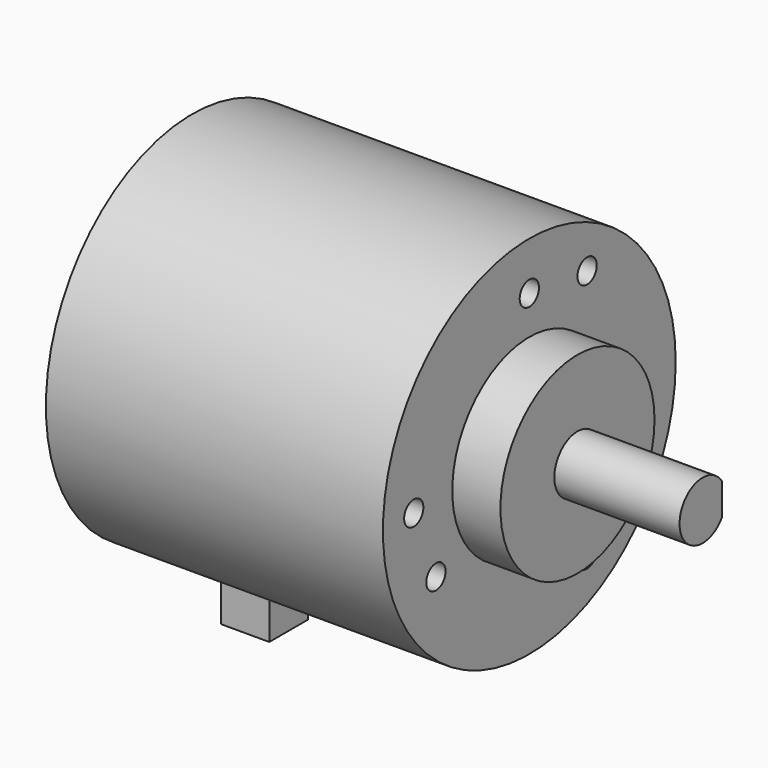
from build123d import *

# Parameters (mm, degrees)
SKETCH001_R  = 1.25
HOLE_DEPTH   = 7.248924
HOLE_TIPS_R  = 1.25
SKETCH002_W  = 20
SKETCH002_H  = 20
POCKET_DEPTH = 10
SKETCH003_W  = 5
SKETCH003_H  = 5
PAD_DEPTH    = 25


with BuildPart() as part:
    # Sketch → Revolution (revolve)
    with BuildSketch(Plane.XY):
        Polygon((0, 0), (0, 19), (35, 19), (35, 10), (40, 10), (40, 3), (53, 3), (53, 0), align=None)
    revolve(axis=Axis((0, 0, 0), (1, 0, 0)))

    # Sketch001 (on Face3 of Revolution) → Hole (cut)
    with BuildSketch(Plane.YZ.offset(35)):
        with Locations((-15, 0)):
            Circle(SKETCH001_R)
        with Locations((-12.124356, -7)):
            Circle(SKETCH001_R)
        with Locations((7.5, -12.990381)):
            Circle(SKETCH001_R)
        with Locations((12.124356, -7)):
            Circle(SKETCH001_R)
        with Locations((7.5, 12.990381)):
            Circle(SKETCH001_R)
        with Locations((0, 14)):
            Circle(SKETCH001_R)
    extrude(amount=-HOLE_DEPTH, mode=Mode.SUBTRACT)

    # Hole tips → Hole tip 1 section 0
    with BuildSketch(Plane.YZ.offset(27.751076), mode=Mode.PRIVATE) as hole_tip_1_s0:
        with Locations((-15, 0)):
            Circle(HOLE_TIPS_R)
    loft([hole_tip_1_s0.sketch, Vertex(27, -15, 0)], mode=Mode.SUBTRACT)

    # Hole tips → Hole tip 2 section 0
    with BuildSketch(Plane.YZ.offset(27.751076), mode=Mode.PRIVATE) as hole_tip_2_s0:
        with Locations((-12.124356, -7)):
            Circle(HOLE_TIPS_R)
    loft([hole_tip_2_s0.sketch, Vertex(27, -12.124356, -7)], mode=Mode.SUBTRACT)

    # Hole tips → Hole tip 3 section 0
    with BuildSketch(Plane.YZ.offset(27.751076), mode=Mode.PRIVATE) as hole_tip_3_s0:
        with Locations((7.5, -12.990381)):
            Circle(HOLE_TIPS_R)
    loft([hole_tip_3_s0.sketch, Vertex(27, 7.5, -12.990381)], mode=Mode.SUBTRACT)

    # Hole tips → Hole tip 4 section 0
    with BuildSketch(Plane.YZ.offset(27.751076), mode=Mode.PRIVATE) as hole_tip_4_s0:
        with Locations((12.124356, -7)):
            Circle(HOLE_TIPS_R)
    loft([hole_tip_4_s0.sketch, Vertex(27, 12.124356, -7)], mode=Mode.SUBTRACT)

    # Hole tips → Hole tip 5 section 0
    with BuildSketch(Plane.YZ.offset(27.751076), mode=Mode.PRIVATE) as hole_tip_5_s0:
        with Locations((7.5, 12.990381)):
            Circle(HOLE_TIPS_R)
    loft([hole_tip_5_s0.sketch, Vertex(27, 7.5, 12.990381)], mode=Mode.SUBTRACT)

    # Hole tips → Hole tip 6 section 0
    with BuildSketch(Plane.YZ.offset(27.751076), mode=Mode.PRIVATE) as hole_tip_6_s0:
        with Locations((0, 14)):
            Circle(HOLE_TIPS_R)
    loft([hole_tip_6_s0.sketch, Vertex(27, 0, 14)], mode=Mode.SUBTRACT)

    # Sketch002 (on Face19 of Hole) → Pocket (cut)
    with BuildSketch(Plane.YZ.offset(53)):
        with Locations((12.5, 0)):
            Rectangle(SKETCH002_W, SKETCH002_H)
    extrude(amount=-POCKET_DEPTH, mode=Mode.SUBTRACT)

    # Sketch003 → Pad (join)
    with BuildSketch(Plane.XY):
        with Locations((7.5, 0)):
            Rectangle(SKETCH003_W, SKETCH003_H)
    extrude(amount=-PAD_DEPTH)


solid = part.part
